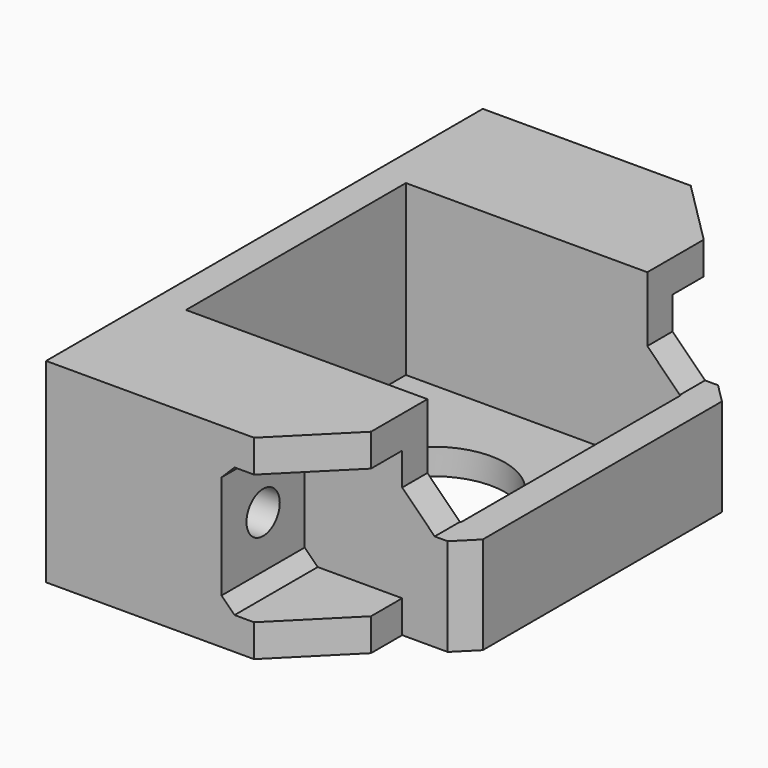
from build123d import *

# Parameters (mm, degrees)
BOX032_W          = 12
BOX032_H          = 52
BOX032_DEPTH      = 15
CHAMFER043_SIZE   = 5
CYLINDER020_R     = 3.2
CYLINDER020_DEPTH = 46
CYLINDER021_R     = 3.2
CYLINDER021_DEPTH = 46
CYLINDER011_R     = 11.05
CYLINDER011_DEPTH = 23
CYLINDER014_R     = 1.6
CYLINDER014_DEPTH = 47
CYLINDER013_R     = 1.6
CYLINDER013_DEPTH = 47
CYLINDER012_R     = 1.6
CYLINDER012_DEPTH = 47
CYLINDER015_R     = 1.6
CYLINDER015_DEPTH = 47
BOX011_W          = 52
BOX011_H          = 52
BOX011_DEPTH      = 4
BOX025_W          = 27
BOX025_H          = 16
BOX025_DEPTH      = 30
BOX027_W          = 15
BOX027_H          = 16
BOX027_DEPTH      = 5
BOX030_W          = 15
BOX030_H          = 16
BOX030_DEPTH      = 5
BOX026_W          = 27
BOX026_H          = 16
BOX026_DEPTH      = 30
BOX029_W          = 15
BOX029_H          = 16
BOX029_DEPTH      = 5
BOX009_W          = 48
BOX009_H          = 4.85
BOX009_DEPTH      = 30
BOX008_W          = 48
BOX008_H          = 4.85
BOX008_DEPTH      = 30
BOX006_W          = 4.85
BOX006_H          = 84
BOX006_DEPTH      = 30
BOX028_W          = 15
BOX028_H          = 16
BOX028_DEPTH      = 5
CHAMFER042_SIZE   = 2
BOX031_W          = 2
BOX031_H          = 52
BOX031_DEPTH      = 6
BOX010_W          = 4.85
BOX010_H          = 52
BOX010_DEPTH      = 15
CHAMFER044_SIZE   = 10
CHAMFER045_SIZE   = 3


with BuildPart() as chamfer043:
    # Box032 → Box032 (new body)
    with BuildSketch(Plane(origin=(42, 99, 45), x_dir=(1, 0, 0), z_dir=(0, 0, 1))):
        with Locations((6, 26)):
            Rectangle(BOX032_W, BOX032_H)
    extrude(amount=BOX032_DEPTH)

    # Chamfer043
    chamfer043_edges = [chamfer043.edges().sort_by_distance(p)[0] for p in [
        (42, 125, 45),
    ]]
    chamfer(chamfer043_edges, length=CHAMFER043_SIZE)


with BuildPart() as cylinder004:
    # Cylinder020 → Cylinder020 (new body)
    with BuildSketch(Plane(origin=(0, 91, 45), x_dir=(0, 0, -1), z_dir=(1, 0, 0))):
        Circle(CYLINDER020_R)
    extrude(amount=CYLINDER020_DEPTH)


with BuildPart() as fusion008022:
    # Cylinder021 → Cylinder021 (new body)
    with BuildSketch(Plane(origin=(0, 159, 45), x_dir=(0, 0, -1), z_dir=(1, 0, 0))):
        Circle(CYLINDER021_R)
    extrude(amount=CYLINDER021_DEPTH)

    # Fusion008022: union Cylinder004
    add(cylinder004.part)


with BuildPart() as center_slot:
    # Cylinder011 → Cylinder011 (new body)
    with BuildSketch(Plane(origin=(26, 125, 23), x_dir=(1, 0, 0), z_dir=(0, 0, 1))):
        Circle(CYLINDER011_R)
    extrude(amount=CYLINDER011_DEPTH)


with BuildPart() as cylinder014:
    # Cylinder014 → Cylinder014 (new body)
    with BuildSketch(Plane(origin=(10.5, 109.5, 4), x_dir=(1, 0, 0), z_dir=(0, 0, 1))):
        Circle(CYLINDER014_R)
    extrude(amount=CYLINDER014_DEPTH)


with BuildPart() as cylinder013:
    # Cylinder013 → Cylinder013 (new body)
    with BuildSketch(Plane(origin=(10.5, 140.5, 4), x_dir=(1, 0, 0), z_dir=(0, 0, 1))):
        Circle(CYLINDER013_R)
    extrude(amount=CYLINDER013_DEPTH)


with BuildPart() as cylinder012:
    # Cylinder012 → Cylinder012 (new body)
    with BuildSketch(Plane(origin=(41.5, 140.5, 4), x_dir=(1, 0, 0), z_dir=(0, 0, 1))):
        Circle(CYLINDER012_R)
    extrude(amount=CYLINDER012_DEPTH)


with BuildPart() as fusion011:
    # Cylinder015 → Cylinder015 (new body)
    with BuildSketch(Plane(origin=(41.5, 109.5, 4), x_dir=(1, 0, 0), z_dir=(0, 0, 1))):
        Circle(CYLINDER015_R)
    extrude(amount=CYLINDER015_DEPTH)

    # Fusion011: union Cylinder014, Cylinder013, Cylinder012
    add(cylinder014.part)
    add(cylinder013.part)
    add(cylinder012.part)


with BuildPart() as cut002003010:
    # Box011 → Box011 (new body)
    with BuildSketch(Plane(origin=(0, 99, 30), x_dir=(1, 0, 0), z_dir=(0, 0, 1))):
        with Locations((26, 26)):
            Rectangle(BOX011_W, BOX011_H)
    extrude(amount=BOX011_DEPTH)

    # Cut002003007: cut Fusion011
    add(fusion011.part, mode=Mode.SUBTRACT)

    # Cut002003010: cut center-slot
    add(center_slot.part, mode=Mode.SUBTRACT)


with BuildPart() as cube025:
    # Box025 → Box025 (new body)
    with BuildSketch(Plane(origin=(0, 83, 30), x_dir=(1, 0, 0), z_dir=(0, 0, 1))):
        with Locations((13.5, 8)):
            Rectangle(BOX025_W, BOX025_H)
    extrude(amount=BOX025_DEPTH)


with BuildPart() as cube027:
    # Box027 → Box027 (new body)
    with BuildSketch(Plane(origin=(27, 83, 30), x_dir=(1, 0, 0), z_dir=(0, 0, 1))):
        with Locations((7.5, 8)):
            Rectangle(BOX027_W, BOX027_H)
    extrude(amount=BOX027_DEPTH)


with BuildPart() as cube030:
    # Box030 → Box030 (new body)
    with BuildSketch(Plane(origin=(27, 151, 55), x_dir=(1, 0, 0), z_dir=(0, 0, 1))):
        with Locations((7.5, 8)):
            Rectangle(BOX030_W, BOX030_H)
    extrude(amount=BOX030_DEPTH)


with BuildPart() as cube026:
    # Box026 → Box026 (new body)
    with BuildSketch(Plane(origin=(0, 151, 30), x_dir=(1, 0, 0), z_dir=(0, 0, 1))):
        with Locations((13.5, 8)):
            Rectangle(BOX026_W, BOX026_H)
    extrude(amount=BOX026_DEPTH)


with BuildPart() as cube029:
    # Box029 → Box029 (new body)
    with BuildSketch(Plane(origin=(27, 151, 30), x_dir=(1, 0, 0), z_dir=(0, 0, 1))):
        with Locations((7.5, 8)):
            Rectangle(BOX029_W, BOX029_H)
    extrude(amount=BOX029_DEPTH)


with BuildPart() as cube009:
    # Box009 → Box009 (new body)
    with BuildSketch(Plane(origin=(0, 146.15, 30), x_dir=(1, 0, 0), z_dir=(0, 0, 1))):
        with Locations((24, 2.425)):
            Rectangle(BOX009_W, BOX009_H)
    extrude(amount=BOX009_DEPTH)


with BuildPart() as cube008:
    # Box008 → Box008 (new body)
    with BuildSketch(Plane(origin=(0, 99, 30), x_dir=(1, 0, 0), z_dir=(0, 0, 1))):
        with Locations((24, 2.425)):
            Rectangle(BOX008_W, BOX008_H)
    extrude(amount=BOX008_DEPTH)


with BuildPart() as cube006:
    # Box006 → Box006 (new body)
    with BuildSketch(Plane(origin=(0, 83, 30), x_dir=(1, 0, 0), z_dir=(0, 0, 1))):
        with Locations((2.425, 42)):
            Rectangle(BOX006_W, BOX006_H)
    extrude(amount=BOX006_DEPTH)


with BuildPart() as chamfer042:
    # Box028 → Box028 (new body)
    with BuildSketch(Plane(origin=(27, 83, 55), x_dir=(1, 0, 0), z_dir=(0, 0, 1))):
        with Locations((7.5, 8)):
            Rectangle(BOX028_W, BOX028_H)
    extrude(amount=BOX028_DEPTH)

    # Fusion008020: union Cube025, Cube027, Cube030, Cube026, Cube029, Cube009, Cube008, Cube006
    add(cube025.part)
    add(cube027.part)
    add(cube030.part)
    add(cube026.part)
    add(cube029.part)
    add(cube009.part)
    add(cube008.part)
    add(cube006.part)

    # Chamfer042
    chamfer042_edges = [chamfer042.edges().sort_by_distance(p)[0] for p in [
        (27, 91, 55),
        (27, 91, 35),
        (27, 159, 55),
        (27, 159, 35),
    ]]
    chamfer(chamfer042_edges, length=CHAMFER042_SIZE)


with BuildPart() as cube031:
    # Box031 → Box031 (new body)
    with BuildSketch(Plane(origin=(-2, 99, 42), x_dir=(1, 0, 0), z_dir=(0, 0, 1))):
        with Locations((1, 26)):
            Rectangle(BOX031_W, BOX031_H)
    extrude(amount=BOX031_DEPTH)


with BuildPart() as chamfer045:
    # Box010 → Box010 (new body)
    with BuildSketch(Plane(origin=(47.15, 99, 30), x_dir=(1, 0, 0), z_dir=(0, 0, 1))):
        with Locations((2.425, 26)):
            Rectangle(BOX010_W, BOX010_H)
    extrude(amount=BOX010_DEPTH)

    # Fusion008021: union Cut002003010, Chamfer042, Cube031
    add(cut002003010.part)
    add(chamfer042.part)
    add(cube031.part)

    # Cut002003021012: cut Fusion008022
    add(fusion008022.part, mode=Mode.SUBTRACT)

    # Cut002003021013: cut Chamfer043
    add(chamfer043.part, mode=Mode.SUBTRACT)

    # Chamfer044
    chamfer044_edges = [chamfer045.edges().sort_by_distance(p)[0] for p in [
        (42, 83, 32.5),
        (42, 83, 57.5),
        (42, 167, 32.5),
        (42, 167, 57.5),
    ]]
    chamfer(chamfer044_edges, length=CHAMFER044_SIZE)

    # Chamfer045
    chamfer045_edges = [chamfer045.edges().sort_by_distance(p)[0] for p in [
        (52, 99, 39.5),
        (52, 99, 32),
        (52, 151, 39.5),
        (52, 151, 32),
    ]]
    chamfer(chamfer045_edges, length=CHAMFER045_SIZE)


solid = chamfer045.part
